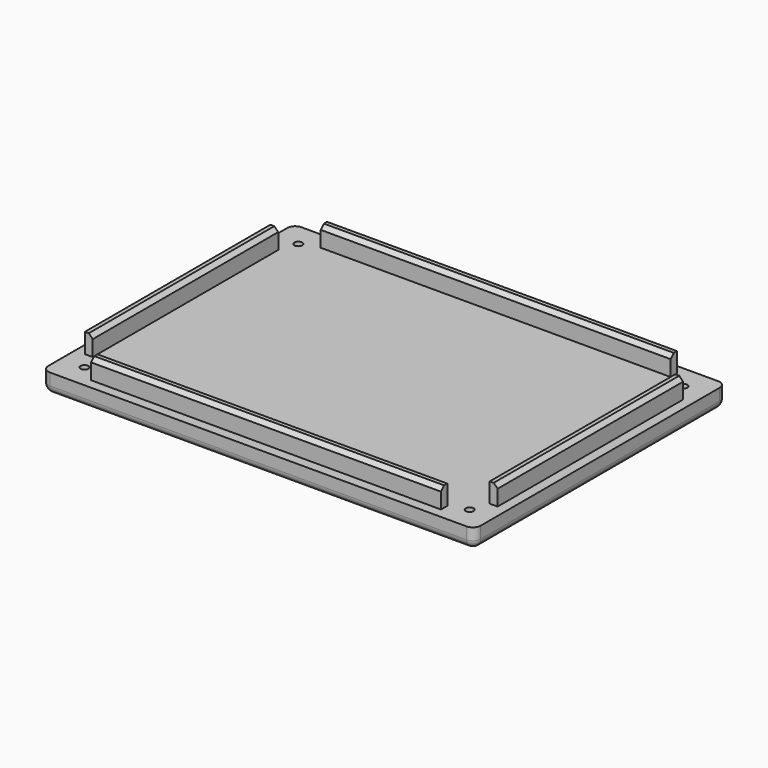
from build123d import *

# Parameters (mm, degrees)
SKETCH_W        = 110
SKETCH_H        = 80
PAD_DEPTH       = 5
SKETCH001_R     = 1
POCKET_DEPTH    = 5
CHAMFER_SIZE    = 1
SKETCH002_W     = 89
SKETCH002_H     = 2
SKETCH002_W_2   = 2
SKETCH002_H_2   = 59
PAD001_DEPTH    = 5
CHAMFER001_SIZE = 1
FILLET_R        = 2


with BuildPart() as part:
    # Sketch → Pad (new body)
    with BuildSketch(Plane.XY):
        Rectangle(SKETCH_W, SKETCH_H)
    extrude(amount=PAD_DEPTH)

    # Sketch001 (on Face6 of Pad) → Pocket (cut)
    with BuildSketch(Plane.XY.offset(5)):
        with Locations((49, 34)):
            Circle(SKETCH001_R)
        with Locations((-49, 34)):
            Circle(SKETCH001_R)
        with Locations((-49, -34)):
            Circle(SKETCH001_R)
        with Locations((49, -34)):
            Circle(SKETCH001_R)
    extrude(amount=-POCKET_DEPTH, mode=Mode.SUBTRACT)

    # Chamfer
    chamfer_edges = [part.edges().sort_by_distance(p)[0] for p in [
        (-50, -34, 0),
        (-50, 34, 0),
        (48, 34, 0),
        (48, -34, 0),
    ]]
    chamfer(chamfer_edges, length=CHAMFER_SIZE)

    # Sketch002 (on Face11 of Chamfer) → Pad001 (join)
    with BuildSketch(Plane.XY.offset(5)):
        with Locations((0, 36.5)):
            Rectangle(SKETCH002_W, SKETCH002_H)
        with Locations((0, -36.5)):
            Rectangle(SKETCH002_W, SKETCH002_H)
        with Locations((51.5, 0)):
            Rectangle(SKETCH002_W_2, SKETCH002_H_2)
        with Locations((-51.5, 0)):
            Rectangle(SKETCH002_W_2, SKETCH002_H_2)
    extrude(amount=PAD001_DEPTH)

    # Chamfer001
    chamfer001_edges = [part.edges().sort_by_distance(p)[0] for p in [
        (0, 35.5, 10),
        (52.5, 0, 10),
        (-50.5, 0, 10),
        (0, -37.5, 10),
    ]]
    chamfer(chamfer001_edges, length=CHAMFER001_SIZE)

    # Fillet
    fillet_edges = [part.edges().sort_by_distance(p)[0] for p in [
        (-55, -40, 2.5),
        (-55, 0, 0),
        (-55, 40, 2.5),
        (0, 40, 0),
        (55, 40, 2.5),
        (55, 0, 0),
        (55, -40, 2.5),
        (0, -40, 0),
    ]]
    fillet(fillet_edges, radius=FILLET_R)


solid = part.part
